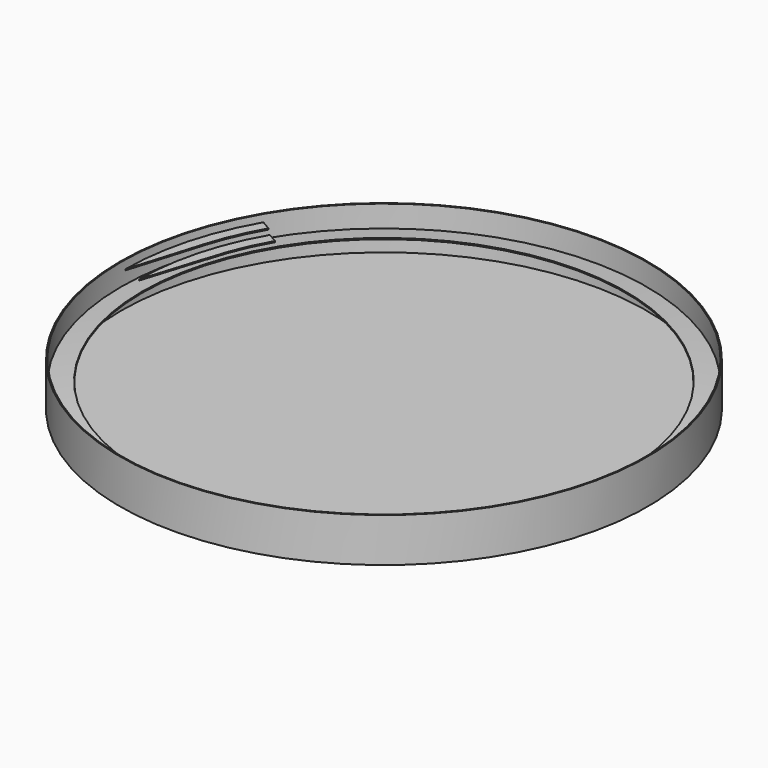
from build123d import *

# Parameters (mm, degrees)
F3_W     = 12.7
F3_H     = 1.27
F4_ANGLE = 30
F7_DEPTH = 1.27
F8_DEPTH = 1.27


with BuildPart() as f2:
    # F0 (on Front) → F2 (revolve)
    with BuildSketch(Plane.XZ):
        Polygon((-304.8, 22.281272), (-304.8, -3.118728), (-304.8, -28.518728), (0, -28.518728), (0, -27.248728), (-303.53, -27.248728), (-303.53, -4.242329), (-279.245226, -1.260534), (-279.4, 0), (-303.53, -2.962791), (-303.53, 22.281272), align=None)
    revolve(axis=Axis((0, 0, -10.939999), (0, 0, -1)))


with BuildPart() as f4:
    # F3 (on Front) → F4 (revolve)
    with BuildSketch(Plane.XZ):
        with Locations((-276.279379, 10.795)):
            Rectangle(F3_W, F3_H)
        with Locations((-292.282711, 15.875)):
            Rectangle(F3_W, F3_H)
    revolve(axis=Axis((0, 0, -10.939999), (0, 0, -1)), revolution_arc=F4_ANGLE)

    # F5 (on face) → F7 (cut, through all)
    with BuildSketch(Plane.XY.offset(16.51)):
        Polygon((-273.772806, 82.498279), (-298.632711, 0), (-285.932711, 0), align=None)
    extrude(amount=-F7_DEPTH, mode=Mode.SUBTRACT)

    # F6 (on face) → F8 (cut, through all)
    with BuildSketch(Plane.XY.offset(11.43)):
        Polygon((-260.731759, 70.55958), (-282.629379, 0), (-269.929379, 0), align=None)
    extrude(amount=-F8_DEPTH, mode=Mode.SUBTRACT)


solid = Compound([f2.part, f4.part])
